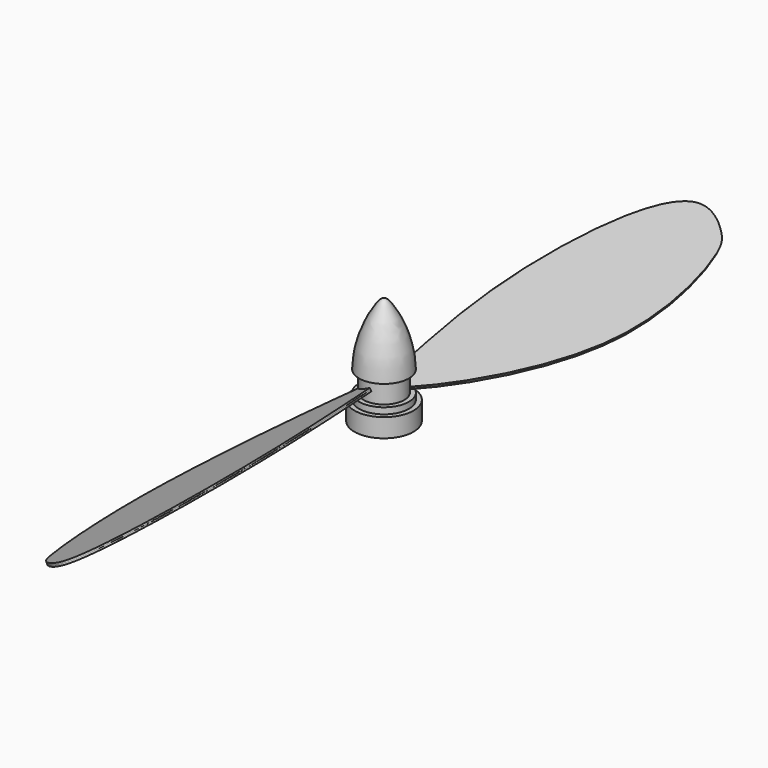
from build123d import *

# Parameters (mm, degrees)
F0_R          = 6.5
F0_R_2        = 4
F1_DEPTH      = 6.6
F5_DEPTH      = 0.5
F5_DEPTH_BACK = 0.5
F6_COUNT      = 2
F7_DEPTH      = 25
F8_R          = 8
F8_R_2        = 2.5
F9_DEPTH      = 2
F10_R         = 9.5
F10_R_2       = 8
F10_R_3       = 2.5
F11_DEPTH     = 6
F12_DEPTH     = 19


with BuildPart() as f1:
    # F0 (on Top) → F1 (new body)
    with BuildSketch(Plane.XY):
        Circle(F0_R)
        Circle(F0_R_2, mode=Mode.SUBTRACT)
    extrude(amount=F1_DEPTH)

    # F4 (on line) → F5 (join, two sides)
    with BuildSketch(Plane(origin=(-1.3320474219, 0, 2.6237297704), x_dir=(0.8916667693, 0, 0.4526923598), z_dir=(-0.4526923598, 0, 0.8916667693))) as f5_sk:
        with BuildLine():
            add(Edge.make_bspline(
                [(0, 0), (-1.1979463445, 0.4696100051), (-6.9523194047, -9.8755134193), (-26.2813683901, -66.881706134), (-15.2434272031, -115.1654052083), (-10.6847579841, -122.8011200235), (6.6092253047, -132.1687499519), (11.1019440736, -63.2815288411), (4.6076786316, -19.6076285832), (1.6314672091, -0.6395556261), (0, 0)],
                knots=[0, 0, 0, 0, 0.0671069079, 0.2539196069, 0.4167405608, 0.4850541393, 0.558274211, 0.736605593, 0.9086079939, 1, 1, 1, 1], degree=3))
        make_face()
    extrude(amount=F5_DEPTH)
    extrude(f5_sk.sketch, amount=-F5_DEPTH_BACK)


with BuildPart() as f6_1:
    # F6: instance of F1
    add(f1.part.rotate(Axis((0, 0, 6.9788326509), (0, 0, 1)), 1 * 360 / F6_COUNT))


with BuildPart() as f7_tool:
    # F0 (on Top) → F7 (new body)
    with BuildSketch(Plane.XY):
        Circle(F0_R_2)
    extrude(amount=F7_DEPTH)


with BuildPart() as f1_1:
    add(f1.part)

    # F7: cut by f7_tool
    add(f7_tool.part, mode=Mode.SUBTRACT)



with BuildPart() as f6_1_1:
    add(f6_1.part)

    # F7: cut by f7_tool
    add(f7_tool.part, mode=Mode.SUBTRACT)


with BuildPart() as f9:
    # F8 (on face) → F9 (new body)
    with BuildSketch(Plane(origin=(0, 0, 0), x_dir=(1, 0, 0), z_dir=(0, 0, -1))):
        Circle(F8_R)
        Circle(F8_R_2, mode=Mode.SUBTRACT)
    extrude(amount=F9_DEPTH)

    # F10 (on face) → F11 (join)
    with BuildSketch(Plane(origin=(0, 0, -2), x_dir=(1, 0, 0), z_dir=(0, 0, -1))):
        Circle(F10_R)
        Circle(F10_R_2, mode=Mode.SUBTRACT)
        Circle(F10_R_2)
        Circle(F10_R_3, mode=Mode.SUBTRACT)
        Circle(F10_R_3)
    extrude(amount=F11_DEPTH)

    # F12 (add): a face of the model
    f12_faces = [f9.faces().sort_by_distance(p)[0] for p in [
        (0, 0, -2),
    ]]
    extrude(f12_faces, amount=F12_DEPTH)


with BuildPart() as f1_2:
    add(f1_1.part)

    add(f6_1_1.part)  # F14 merges F6_1

    add(f9.part)  # F14 merges F9
    # F13 (on Front) → F14 (revolve)
    with BuildSketch(Plane.XZ):
        with BuildLine():
            Line((-8, 6.6), (0, 6.6))
            Line((0, 6.6), (0, 26.6))
            add(Edge.make_bspline(
                [(0, 26.6), (-0.5780083219, 26.6), (-2.424968411, 25.3705428841), (-8, 15.129778075), (-8, 6.6)],
                knots=[0, 0, 0, 0, 0.2420352371, 1, 1, 1, 1], degree=3))
        make_face()
    revolve(axis=Axis((0, 0, 16.6), (0, 0, 1)))


solid = f1_2.part
